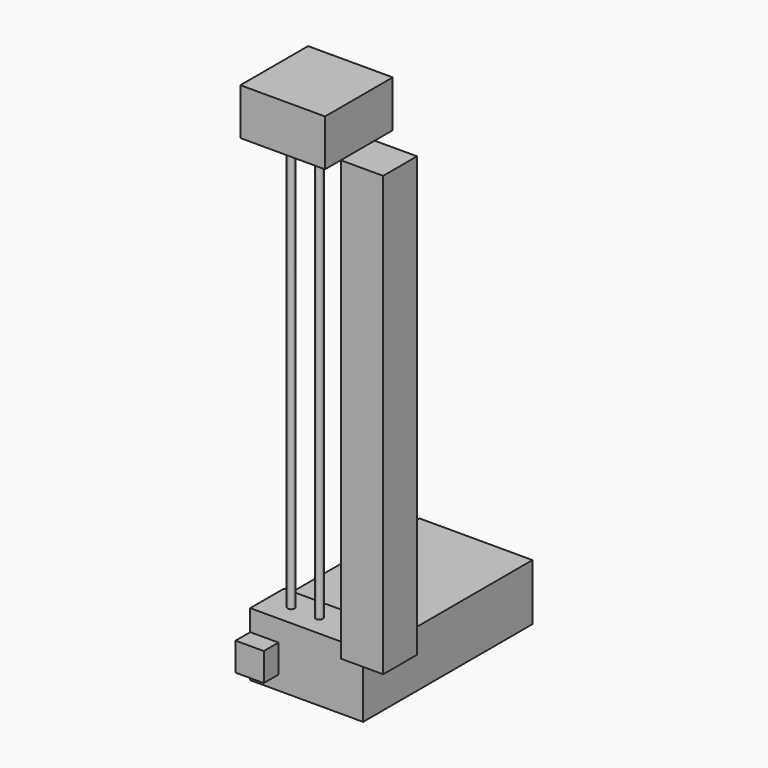
from build123d import *

# Parameters (mm, degrees)
BOX002_W          = 80
BOX002_H          = 150
BOX002_DEPTH      = 40
CYLINDER_R        = 2.5
CYLINDER_DEPTH    = 310
CYLINDER001_R     = 2.5
CYLINDER001_DEPTH = 310
CYLINDER002_R     = 2.5
CYLINDER002_DEPTH = 310
BOX009_W          = 60
BOX009_H          = 60
BOX009_DEPTH      = 33
BOX025_W          = 80
BOX025_H          = 30
BOX025_DEPTH      = 40
BOX033_W          = 20
BOX033_H          = 13
BOX033_DEPTH      = 20
BOX001_W          = 30
BOX001_H          = 30
BOX001_DEPTH      = 311


with BuildPart() as electronicsbox:
    # Box002 → Box002 (new body)
    with BuildSketch(Plane(origin=(15, -15, -35), x_dir=(1, 0, 0), z_dir=(0, 0, 1))):
        with Locations((40, 75)):
            Rectangle(BOX002_W, BOX002_H)
    extrude(amount=BOX002_DEPTH)


with BuildPart() as obj1:
    # Cylinder → Cylinder (new body)
    with BuildSketch(Plane(origin=(32, 0, 0), x_dir=(1, 0, 0), z_dir=(0, 0, 1))):
        Circle(CYLINDER_R)
    extrude(amount=CYLINDER_DEPTH)


with BuildPart() as obj2:
    # Cylinder001 → Cylinder001 (new body)
    with BuildSketch(Plane(origin=(72, 0, 0), x_dir=(1, 0, 0), z_dir=(0, 0, 1))):
        Circle(CYLINDER001_R)
    extrude(amount=CYLINDER001_DEPTH)


with BuildPart() as obj3:
    # Cylinder002 → Cylinder002 (new body)
    with BuildSketch(Plane(origin=(52, 0, 0), x_dir=(1, 0, 0), z_dir=(0, 0, 1))):
        Circle(CYLINDER002_R)
    extrude(amount=CYLINDER002_DEPTH)


with BuildPart() as obj4:
    # Box009 → Box009 (new body)
    with BuildSketch(Plane(origin=(80, 30, 311), x_dir=(-1, 0, 0), z_dir=(0, 0, 1))):
        with Locations((30, 30)):
            Rectangle(BOX009_W, BOX009_H)
    extrude(amount=BOX009_DEPTH)


with BuildPart() as obj5:
    # Box025 → Box025 (new body)
    with BuildSketch(Plane(origin=(15, -15, -30), x_dir=(1, 0, 0), z_dir=(0, 0, 1))):
        with Locations((40, 15)):
            Rectangle(BOX025_W, BOX025_H)
    extrude(amount=BOX025_DEPTH)


with BuildPart() as mountblock:
    # Box033 → Box033 (new body)
    with BuildSketch(Plane(origin=(15, -28, -25), x_dir=(1, 0, 0), z_dir=(0, 0, 1))):
        with Locations((10, 6.5)):
            Rectangle(BOX033_W, BOX033_H)
    extrude(amount=BOX033_DEPTH)


with BuildPart() as obj6:
    # Box001 → Box001 (new body)
    with BuildSketch(Plane(origin=(80, -16, 0), x_dir=(1, 0, 0), z_dir=(0, 0, 1))):
        with Locations((15, 15)):
            Rectangle(BOX001_W, BOX001_H)
    extrude(amount=BOX001_DEPTH)

    # Fusion: union ElectronicsBox, obj1, obj2, obj3, obj4, obj5, MountBlock
    add(electronicsbox.part)
    add(obj1.part)
    add(obj2.part)
    add(obj3.part)
    add(obj4.part)
    add(obj5.part)
    add(mountblock.part)


solid = obj6.part
